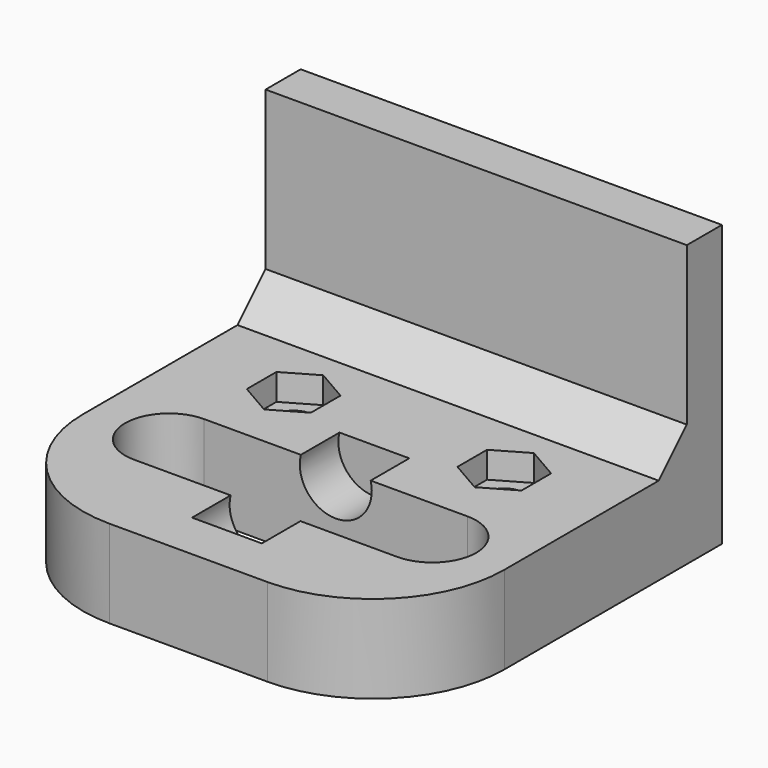
from build123d import *

# Parameters (mm, degrees)
PAD_DEPTH            = 24
POCKET_DEPTH         = 0.001
POCKET_DEPTH_BACK    = -32.001
SKETCH002_R          = 4.1
POCKET001_DEPTH      = 10.5
SKETCH003_R          = 2.25
HOLE_DEPTH           = 179.567934
POCKET002_DEPTH      = 172.567934
POCKET003_DEPTH      = 0.001
POCKET003_DEPTH_BACK = -32.001


with BuildPart() as part:
    # Sketch001 → Pad (new body, symmetric)
    with BuildSketch(Plane.YZ):
        Polygon((-16, 0), (-16, 10), (21, 10), (25, 14), (25, 32), (30, 32), (30, 0), align=None)
    extrude(amount=PAD_DEPTH, both=True)

    # Sketch → Pocket (cut, two sides)
    with BuildSketch(Plane.XY) as pocket_sk:
        with BuildLine():
            ThreePointArc((-15, 5), (-20, 0), (-15, -5))
            Line((-15, -5), (15, -5))
            ThreePointArc((15, -5), (20, 0), (15, 5))
            Line((15, 5), (-15, 5))
        make_face()
    extrude(amount=-POCKET_DEPTH, mode=Mode.SUBTRACT)
    extrude(pocket_sk.sketch, amount=-POCKET_DEPTH_BACK, mode=Mode.SUBTRACT)

    # Sketch002 → Pocket001 (cut, symmetric)
    with BuildSketch(Plane.XZ):
        with Locations((0, 9)):
            Circle(SKETCH002_R)
    extrude(amount=POCKET001_DEPTH, both=True, mode=Mode.SUBTRACT)

    # Sketch003 → Hole (cut, through all)
    with BuildSketch(Plane(origin=(12, 14, 0), x_dir=(1, 0, 0), z_dir=(0, 0, 1))):
        Circle(SKETCH003_R)
    hole = extrude(amount=HOLE_DEPTH, mode=Mode.SUBTRACT)

    # Sketch004 (on Sketch) → Pocket002 (cut, through all)
    with BuildSketch(Plane(origin=(12, 14, 7), x_dir=(1, 0, 0), z_dir=(0, 0, 1))):
        Polygon((0, 4.214657), (-3.65, 2.107328), (-3.65, -2.107328), (0, -4.214657), (3.65, -2.107328), (3.65, 2.107328), align=None)
    pocket002 = extrude(amount=POCKET002_DEPTH, mode=Mode.SUBTRACT)

    # Mirrored: Pocket002, Hole across YZ
    add(pocket002.mirror(Plane.YZ), mode=Mode.SUBTRACT)
    add(hole.mirror(Plane.YZ), mode=Mode.SUBTRACT)

    # Sketch005 → Pocket003 (cut, two sides)
    with BuildSketch(Plane.XY) as pocket003_sk:
        with BuildLine():
            ThreePointArc((-24, -1), (-19.606602, -11.606602), (-9, -16))
            Line((-9, -16), (9, -16))
            ThreePointArc((9, -16), (19.606602, -11.606602), (24, -1))
            Line((34, -1), (24, -1))
            Line((34, -1), (34, -69))
            Line((34, -69), (-34, -69))
            Line((-34, -69), (-34, -1))
            Line((-24, -1), (-34, -1))
        make_face()
    extrude(amount=-POCKET003_DEPTH, mode=Mode.SUBTRACT)
    extrude(pocket003_sk.sketch, amount=-POCKET003_DEPTH_BACK, mode=Mode.SUBTRACT)


solid = part.part
